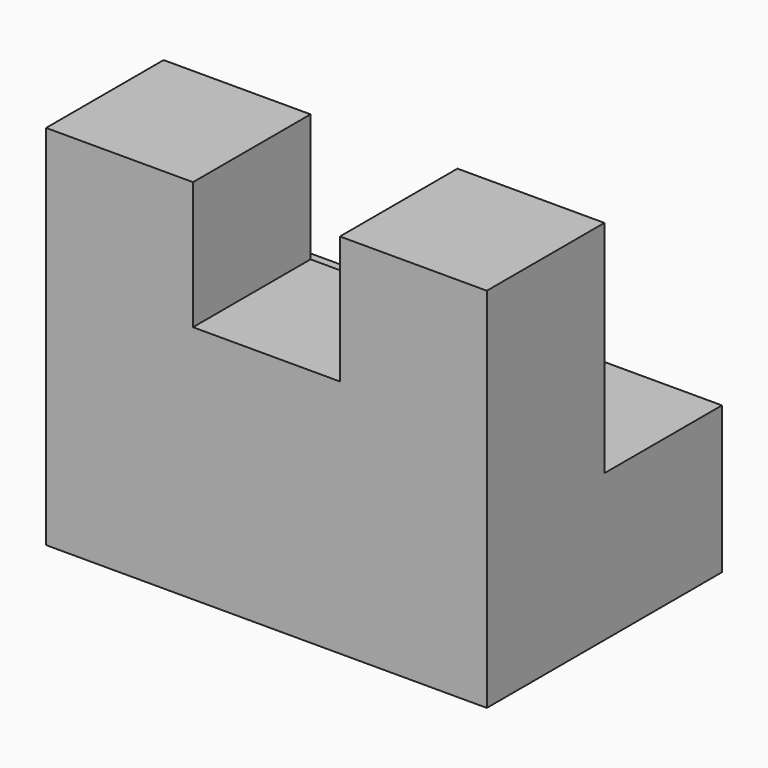
from build123d import *

# Parameters (mm, degrees)
F1_DEPTH = 25.4
F3_DEPTH = 12.7


with BuildPart() as f1:
    # F0 (on Front) → F1 (new body)
    with BuildSketch(Plane.XZ):
        Polygon((0, 31.75), (0, 0), (38.1, 0), (38.1, 31.75), (25.4, 31.75), (25.4, 20.713098), (12.7, 20.713098), (12.7, 31.75), align=None)
    extrude(amount=F1_DEPTH)

    # F2 (on face) → F3 (cut)
    with BuildSketch(Plane(origin=(0, 0, 0), x_dir=(-1, 0, 0), z_dir=(0, 1, 0))):
        Polygon((-38.1, 31.75), (-38.1, 12.7), (0, 12.7), (0, 31.75), (-12.7, 31.75), (-12.7, 20.713098), (-25.4, 20.713098), (-25.4, 31.75), align=None)
    extrude(amount=-F3_DEPTH, mode=Mode.SUBTRACT)


solid = f1.part
